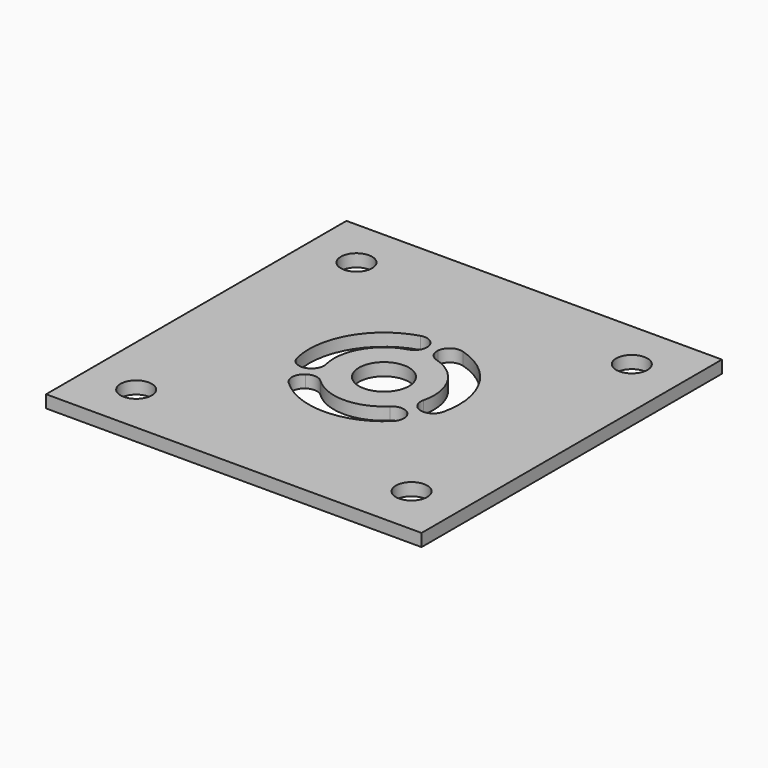
from build123d import *

# Parameters (mm, degrees)
F0_W     = 38.1
F0_H     = 38.1
F1_DEPTH = 1.27
F3_DEPTH = 25.4
F4_R     = 1.5875
F4_R_2   = 2.54
F5_DEPTH = 25.4


with BuildPart() as f1:
    # F0 (on Top) → F1 (new body)
    with BuildSketch(Plane.XY):
        Rectangle(F0_W, F0_H)
    extrude(amount=F1_DEPTH)

    # F2 (on Top) → F3 (cut)
    with BuildSketch(Plane.XY):
        with BuildLine():
            ThreePointArc((-0.518475, 6.200063), (-1.065611, 7.141481), (-2.14087, 7.313076))
            ThreePointArc((-2.14087, 7.313076), (-6.590117, 3.82554), (-7.412157, -1.767578))
            ThreePointArc((-7.412157, -1.767578), (-6.729914, -2.616206), (-5.641081, -2.624462))
            ThreePointArc((-5.641081, -2.624462), (-5.033573, -2.026098), (-4.941438, -1.178385))
            ThreePointArc((-4.941438, -1.178385), (-4.393411, 2.55036), (-1.427246, 4.875384))
            ThreePointArc((-1.427246, 4.875384), (-0.736807, 5.375783), (-0.518475, 6.200063))
        make_face()
        with BuildLine():
            ThreePointArc((5.641081, -2.624462), (6.729914, -2.616206), (7.412157, -1.767578))
            ThreePointArc((7.412157, -1.767578), (6.590117, 3.82554), (2.14087, 7.313076))
            ThreePointArc((2.14087, 7.313076), (1.065611, 7.141481), (0.518475, 6.200063))
            ThreePointArc((0.518475, 6.200063), (0.736807, 5.375783), (1.427246, 4.875384))
            ThreePointArc((1.427246, 4.875384), (4.393411, 2.55036), (4.941438, -1.178385))
            ThreePointArc((4.941438, -1.178385), (5.033573, -2.026098), (5.641081, -2.624462))
        make_face()
        with BuildLine():
            ThreePointArc((-5.126844, -3.524921), (-5.673013, -4.4669), (-5.288787, -5.485721))
            ThreePointArc((-5.288787, -5.485721), (0, -7.62), (5.288787, -5.485721))
            ThreePointArc((5.288787, -5.485721), (5.673013, -4.4669), (5.126844, -3.524921))
            ThreePointArc((5.126844, -3.524921), (4.302789, -3.305743), (3.525858, -3.657147))
            ThreePointArc((3.525858, -3.657147), (0, -5.08), (-3.525858, -3.657147))
            ThreePointArc((-3.525858, -3.657147), (-4.302789, -3.305743), (-5.126844, -3.524921))
        make_face()
    extrude(amount=F3_DEPTH, mode=Mode.SUBTRACT)

    # F4 (on Top) → F5 (cut)
    with BuildSketch(Plane.XY):
        with Locations((13.97, 13.97)):
            Circle(F4_R)
        with Locations((13.97, -13.97)):
            Circle(F4_R)
        with Locations((-13.97, -13.97)):
            Circle(F4_R)
        with Locations((-13.97, 13.97)):
            Circle(F4_R)
        Circle(F4_R_2)
    extrude(amount=F5_DEPTH, mode=Mode.SUBTRACT)


solid = f1.part
